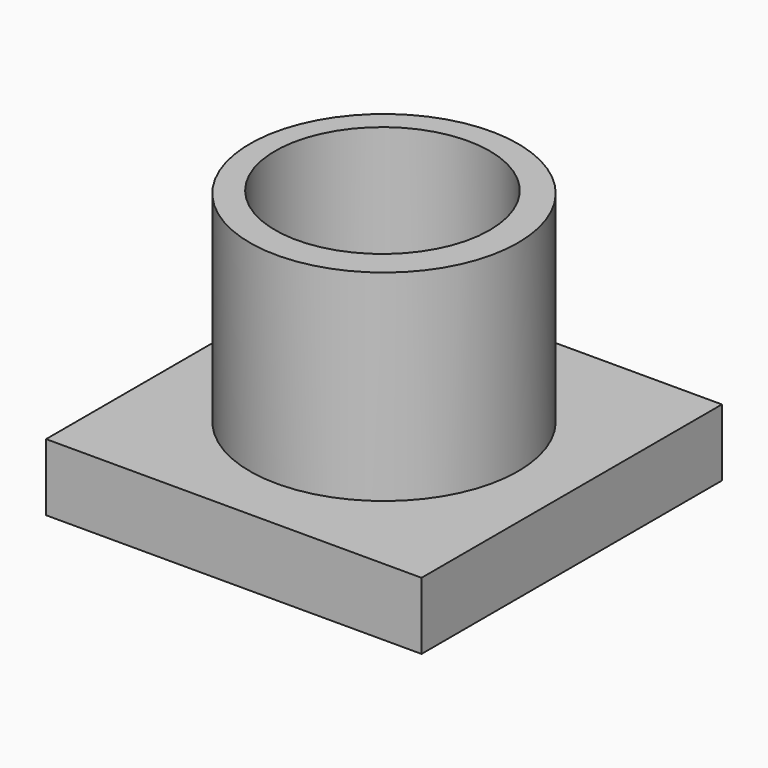
from build123d import *

# Parameters (mm, degrees)
F0_W     = 140
F0_H     = 140
F1_DEPTH = 25
F2_R     = 50
F3_DEPTH = 75
F4_R     = 40
F5_DEPTH = 75


with BuildPart() as f1:
    # F0 (on Top) → F1 (new body)
    with BuildSketch(Plane.XY):
        with Locations((-38.313064, 24.884112)):
            Rectangle(F0_W, F0_H)
    extrude(amount=F1_DEPTH)

    # F2 (on face) → F3 (join)
    with BuildSketch(Plane.XY.offset(25)):
        with Locations((-38.313064, 24.884112)):
            Circle(F2_R)
    extrude(amount=F3_DEPTH)

    # F4 (on face) → F5 (cut)
    with BuildSketch(Plane.XY.offset(100)):
        with Locations((-39.742772, 25.948399)):
            Circle(F4_R)
    extrude(amount=-F5_DEPTH, mode=Mode.SUBTRACT)


solid = f1.part
